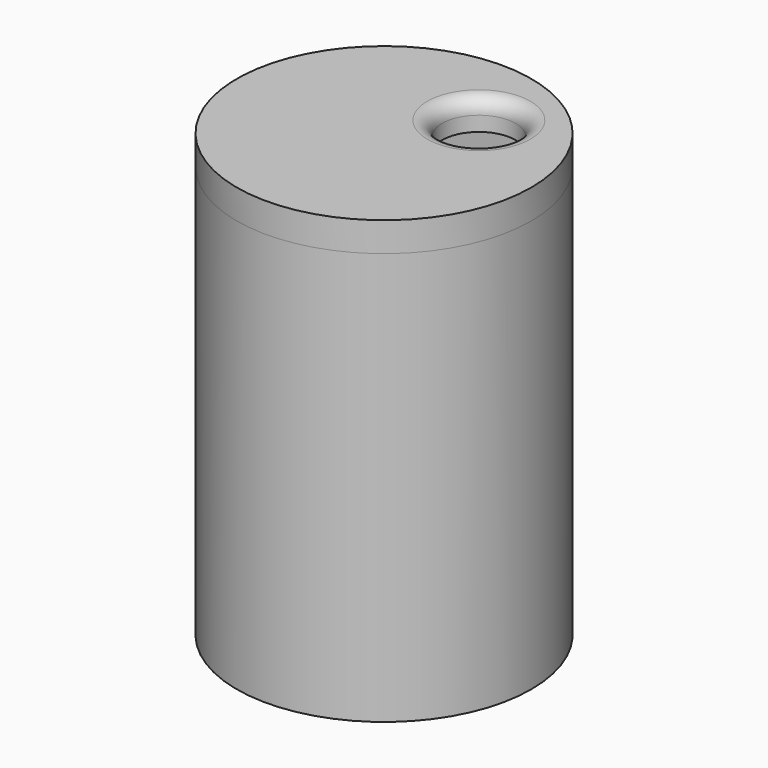
from build123d import *

# Parameters (mm, degrees)
SKETCH_R      = 10
SKETCH_R_2    = 9.25
PAD_DEPTH     = 28
SKETCH001_R   = 10
SKETCH001_W   = 10.7
SKETCH001_H   = 13.5
PAD001_DEPTH  = 2
SKETCH005_R   = 10
SKETCH005_R_2 = 2.5
PAD004_DEPTH  = 2
FILLET_R      = 1


with BuildPart() as part:
    # Sketch (on XY_Plane of Origin) → Pad (new body)
    with BuildSketch(Plane.XY):
        with Locations((12, 10.7)):
            Circle(SKETCH_R)
        with Locations((12, 10.7)):
            Circle(SKETCH_R_2, mode=Mode.SUBTRACT)
    extrude(amount=-PAD_DEPTH)

    # Sketch001 (on Face3 of Pad) → Pad001 (join)
    with BuildSketch(Plane.XY):
        with Locations((12, 10.7)):
            Circle(SKETCH001_R)
        with Locations((12.5, 11.05)):
            Rectangle(SKETCH001_W, SKETCH001_H, mode=Mode.SUBTRACT)
    extrude(amount=-PAD001_DEPTH)

    # Sketch005 (on Face8 of Pad001) → Pad004 (join)
    with BuildSketch(Plane.XY):
        with Locations((12, 10.7)):
            Circle(SKETCH005_R)
        with Locations((15, 15)):
            Circle(SKETCH005_R_2, mode=Mode.SUBTRACT)
    extrude(amount=PAD004_DEPTH)

    # Fillet
    fillet_edges = [part.edges().sort_by_distance(p)[0] for p in [
        (12.5, 15, 2),
    ]]
    fillet(fillet_edges, radius=FILLET_R)


solid = part.part
